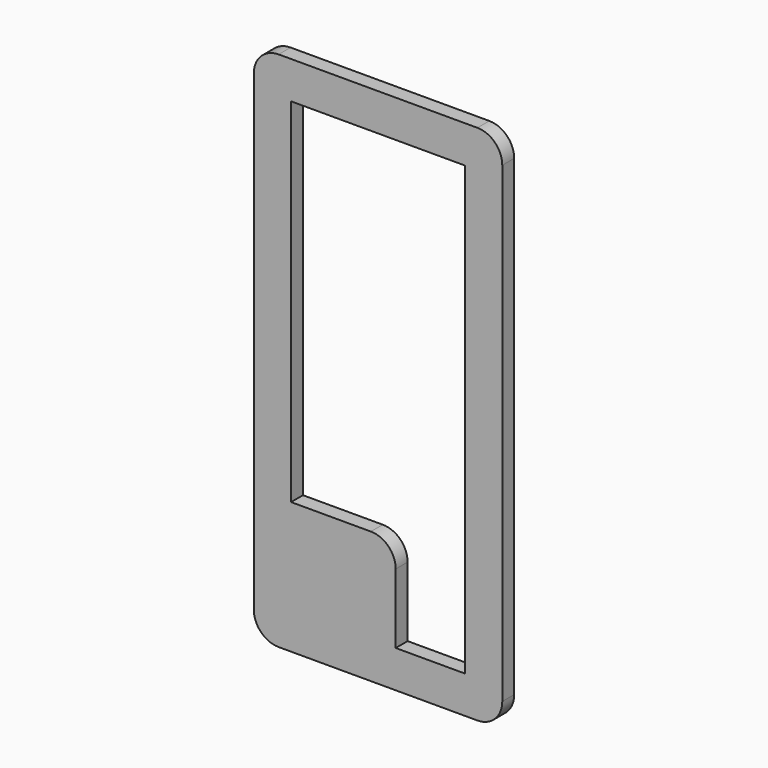
from build123d import *

# Parameters (mm, degrees)
F1_DEPTH = 6


with BuildPart() as f1:
    # F0 (on Front) → F1 (new body)
    with BuildSketch(Plane.XZ):
        with BuildLine():
            Line((28.552629, 133.043638), (-51.447371, 133.043638))
            ThreePointArc((-51.447371, 133.043638), (-58.518439, 130.114706), (-61.447371, 123.043638))
            Line((-61.447371, 123.043638), (-61.447371, -66.956362))
            ThreePointArc((-61.447371, -66.956362), (-58.518439, -74.027429), (-51.447371, -76.956362))
            Line((-51.447371, -76.956362), (28.552629, -76.956362))
            ThreePointArc((28.552629, -76.956362), (35.623697, -74.027429), (38.552629, -66.956362))
            Line((38.552629, -66.956362), (38.552629, 123.043638))
            ThreePointArc((38.552629, 123.043638), (35.623697, 130.114706), (28.552629, 133.043638))
        make_face()
        with BuildLine():
            Line((-46.447371, -23.956362), (-46.447371, 118.043638))
            Line((-46.447371, 118.043638), (23.552629, 118.043638))
            Line((23.552629, 118.043638), (23.552629, -61.956362))
            Line((23.552629, -61.956362), (-4.337173, -61.956362))
            Line((-4.337173, -61.956362), (-4.337173, -33.956362))
            ThreePointArc((-4.337173, -33.956362), (-7.266106, -26.885294), (-14.337173, -23.956362))
            Line((-14.337173, -23.956362), (-46.447371, -23.956362))
        make_face(mode=Mode.SUBTRACT)
    extrude(amount=F1_DEPTH)


solid = f1.part
